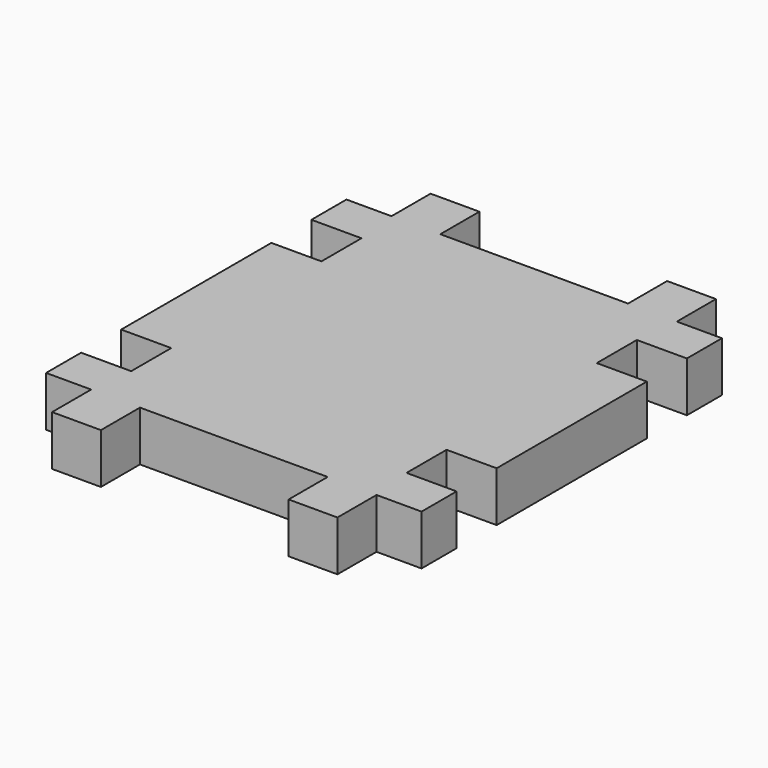
from build123d import *

# Parameters (mm, degrees)
F0_W     = 4.953
F0_H     = 4.953
F1_DEPTH = 5.08


with BuildPart() as f1:
    # F0 (on Top) → F1 (new body)
    with BuildSketch(Plane.XY):
        Polygon((-19.05, 9.525), (-19.05, 0), (0, 0), (0, 19.05), (-9.525, 19.05), (-14.478, 19.05), (-19.05, 19.05), (-19.05, 14.605), (-13.97, 14.605), (-13.97, 9.525), align=None)
        Polygon((0, 19.05), (0, 0), (19.05, 0), (19.05, 9.525), (13.97, 9.525), (13.97, 14.605), (19.05, 14.605), (19.05, 19.05), (14.478, 19.05), (9.525, 19.05), align=None)
        Polygon((0, 0), (0, -19.05), (9.525, -19.05), (14.478, -19.05), (19.05, -19.05), (19.05, -14.605), (13.97, -14.605), (13.97, -9.525), (19.05, -9.525), (19.05, 0), align=None)
        Polygon((-19.05, -14.605), (-19.05, -19.05), (-14.478, -19.05), (-9.525, -19.05), (0, -19.05), (0, 0), (-19.05, 0), (-19.05, -9.525), (-13.97, -9.525), (-13.97, -14.605), align=None)
        with Locations((-12.0015, 21.5265)):
            Rectangle(F0_W, F0_H)
        with Locations((12.0015, 21.5265)):
            Rectangle(F0_W, F0_H)
        with Locations((12.0015, -21.5265)):
            Rectangle(F0_W, F0_H)
        with Locations((-12.0015, -21.5265)):
            Rectangle(F0_W, F0_H)
    extrude(amount=F1_DEPTH)


solid = f1.part
